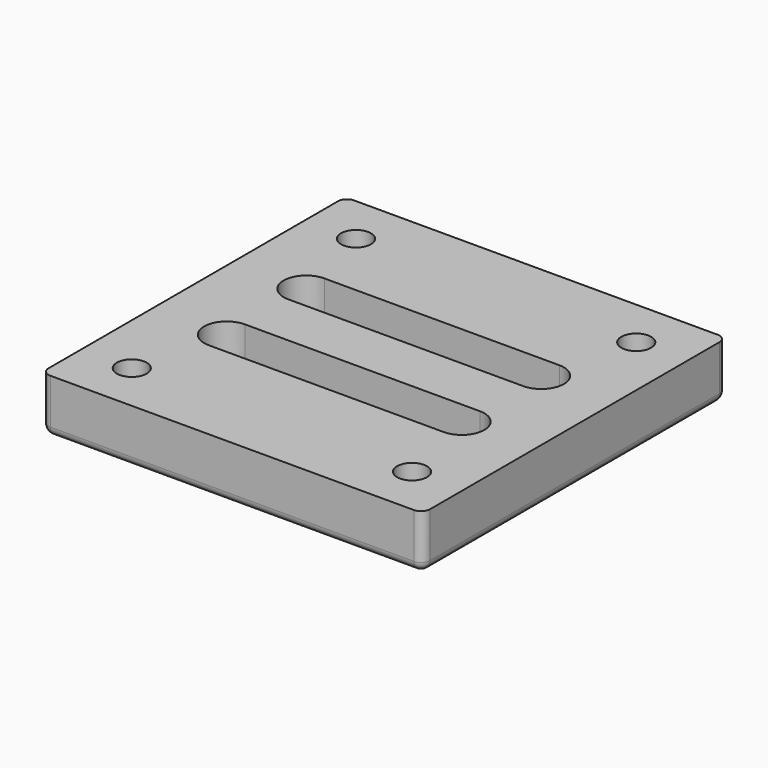
from build123d import *

# Parameters (mm, degrees)
F0_W     = 42.2
F0_H     = 42
F1_DEPTH = 6
F3_R     = 1
F4_R     = 1
F5_DEPTH = 3
F6_R     = 1.65
F7_DEPTH = 6.001


with BuildPart() as f1:
    # F0 (on Top) → F1 (new body)
    with BuildSketch(Plane.XY):
        Rectangle(F0_W, F0_H)
        with BuildLine():
            Line((13, -8), (-13, -8))
            ThreePointArc((-13, -8), (-15.5, -5.5), (-13, -3))
            Line((-13, -3), (13, -3))
            ThreePointArc((13, -3), (15.5, -5.5), (13, -8))
        make_face(mode=Mode.SUBTRACT)
        with BuildLine():
            Line((13, 3), (-13, 3))
            ThreePointArc((-13, 3), (-15.5, 5.5), (-13, 8))
            Line((-13, 8), (13, 8))
            ThreePointArc((13, 8), (15.5, 5.5), (13, 3))
        make_face(mode=Mode.SUBTRACT)
    extrude(amount=F1_DEPTH)

    # F3
    f3_edges = [f1.edges().sort_by_distance(p)[0] for p in [
        (-21.1, -21, 3),
        (21.1, -21, 3),
        (-21.1, 21, 3),
        (21.1, 21, 3),
    ]]
    fillet(f3_edges, radius=F3_R)

    # F4
    f4_edges = [f1.edges().sort_by_distance(p)[0] for p in [
        (0, -21, 0),
        (0, -3, 0),
        (0, 8, 0),
    ]]
    fillet(f4_edges, radius=F4_R)

    # F2 (on face) → F5 (cut)
    with BuildSketch(Plane(origin=(0, 0, 0), x_dir=(1, 0, 0), z_dir=(0, 0, -1))):
        Polygon((-12.5, 13.767949), (-12.5, 17.232051), (-15.5, 18.964102), (-18.5, 17.232051), (-18.5, 13.767949), (-15.5, 12.035898), align=None)
        Polygon((12.5, 17.232051), (12.5, 13.767949), (15.5, 12.035898), (18.5, 13.767949), (18.5, 17.232051), (15.5, 18.964102), align=None)
        Polygon((12.5, -13.767949), (12.5, -17.232051), (15.5, -18.964102), (18.5, -17.232051), (18.5, -13.767949), (15.5, -12.035898), align=None)
        Polygon((-12.5, -17.232051), (-12.5, -13.767949), (-15.5, -12.035898), (-18.5, -13.767949), (-18.5, -17.232051), (-15.5, -18.964102), align=None)
    extrude(amount=-F5_DEPTH, mode=Mode.SUBTRACT)

    # F6 (on face) → F7 (cut, through all)
    with BuildSketch(Plane(origin=(0, 0, 0), x_dir=(1, 0, 0), z_dir=(0, 0, -1))):
        with Locations((-15.5, 15.5)):
            Circle(F6_R)
        with Locations((15.5, 15.5)):
            Circle(F6_R)
        with Locations((15.5, -15.5)):
            Circle(F6_R)
        with Locations((-15.5, -15.5)):
            Circle(F6_R)
    extrude(amount=-F7_DEPTH, mode=Mode.SUBTRACT)


solid = f1.part
